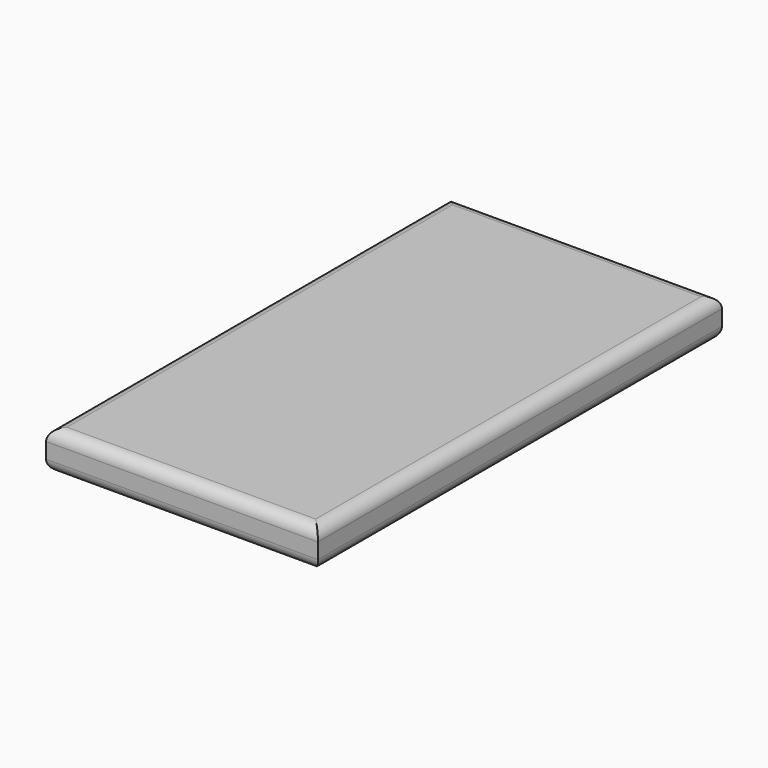
from build123d import *

# Parameters (mm, degrees)
F0_W     = 35
F0_H     = 65
F1_DEPTH = 5
F2_R     = 1.5


with BuildPart() as f1:
    # F0 (on Top) → F1 (new body)
    with BuildSketch(Plane.XY):
        with Locations((-2e-06, 0.200001)):
            Rectangle(F0_W, F0_H)
    extrude(amount=F1_DEPTH)

    # F2
    f2_edges = [f1.edges().sort_by_distance(p)[0] for p in [
        (-17.500002, 0.200001, 5),
        (-2e-06, -32.299999, 5),
        (17.499998, 0.200001, 5),
        (-2e-06, 32.700001, 5),
        (17.499998, 0.200001, 0),
        (-2e-06, 32.700001, 0),
        (-17.500002, 0.200001, 0),
        (-2e-06, -32.299999, 0),
    ]]
    fillet(f2_edges, radius=F2_R)


solid = f1.part
